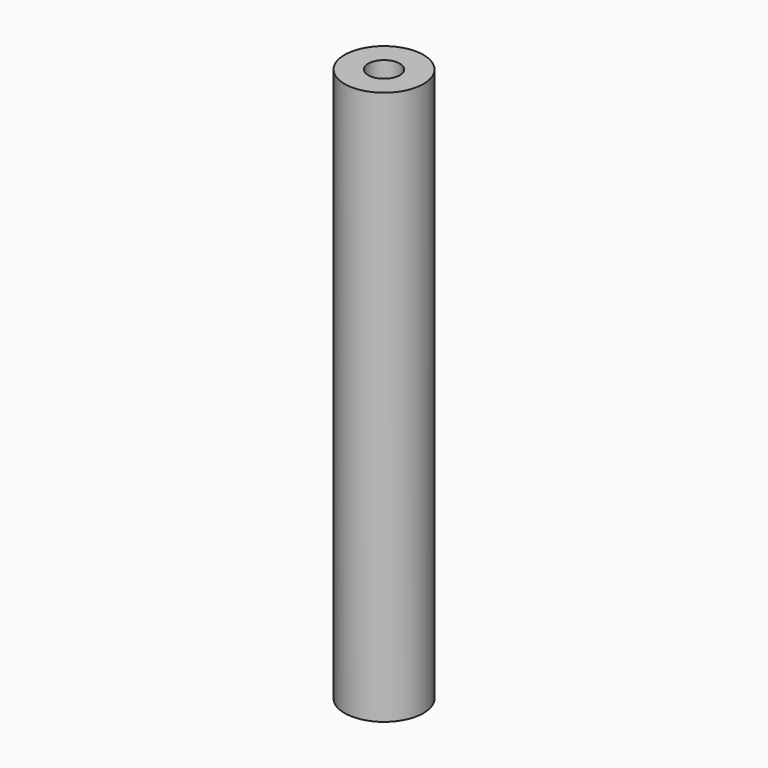
from build123d import *

# Parameters (mm, degrees)
SKETCH_R   = 5
SKETCH_R_2 = 2
PAD_DEPTH  = 70.2


with BuildPart() as part:
    # Sketch → Pad (new body)
    with BuildSketch(Plane.XY):
        Circle(SKETCH_R)
        Circle(SKETCH_R_2, mode=Mode.SUBTRACT)
    extrude(amount=PAD_DEPTH)


solid = part.part
